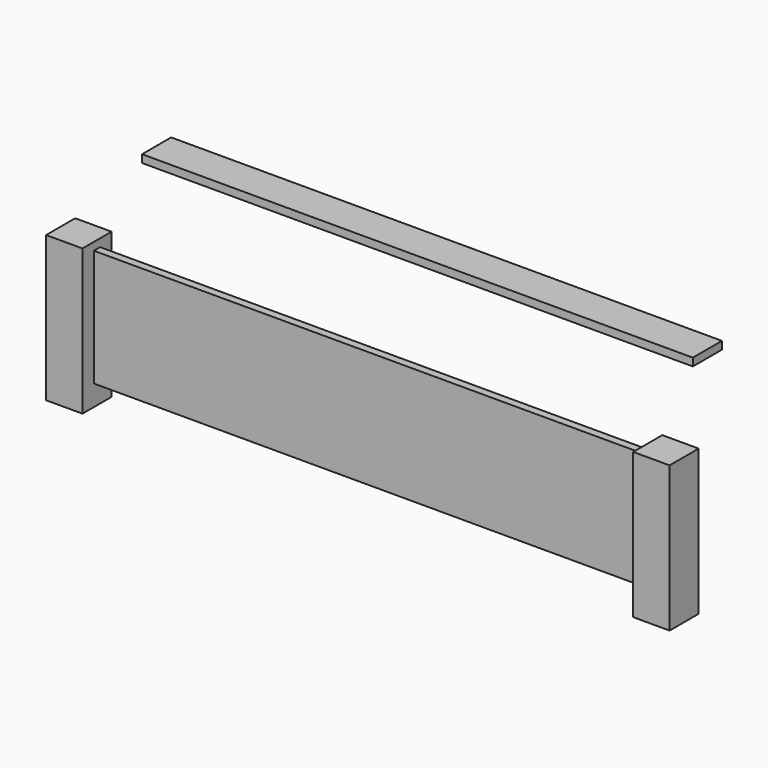
from build123d import *

# Parameters (mm, degrees)
F0_W     = 1346.2
F0_H     = 285.75
F1_DEPTH = 19.05
F2_W     = 88.9
F2_H     = 355.6
F3_DEPTH = 88.9
F4_W     = 88.9
F4_H     = 355.6
F5_DEPTH = 88.9
F6_W     = 88.9
F6_H     = 19.05
F7_DEPTH = 1346.2


with BuildPart() as f1:
    # F0 (on Front) → F1 (new body)
    with BuildSketch(Plane.XZ):
        with Locations((-68.090189, 109.505653)):
            Rectangle(F0_W, F0_H)
    extrude(amount=F1_DEPTH)


with BuildPart() as f3:
    # F2 (on face) → F3 (new body)
    with BuildSketch(Plane(origin=(-741.190189, 0, 0), x_dir=(0, -1, 0), z_dir=(-1, 0, 0))):
        with Locations((9.525, 93.630653)):
            Rectangle(F2_W, F2_H)
    extrude(amount=F3_DEPTH)


with BuildPart() as f5:
    # F4 (on face) → F5 (new body)
    with BuildSketch(Plane.YZ.offset(605.009811)):
        with Locations((-9.525, 93.630653)):
            Rectangle(F4_W, F4_H)
    extrude(amount=F5_DEPTH)


with BuildPart() as f7:
    # F6 (on face) → F7 (new body, through all)
    with BuildSketch(Plane(origin=(605.009811, 0, 0), x_dir=(0, -1, 0), z_dir=(-1, 0, 0))):
        with Locations((-172.631402, 390.72405)):
            Rectangle(F6_W, F6_H)
    extrude(amount=F7_DEPTH)


solid = Compound([f1.part, f3.part, f5.part, f7.part])
